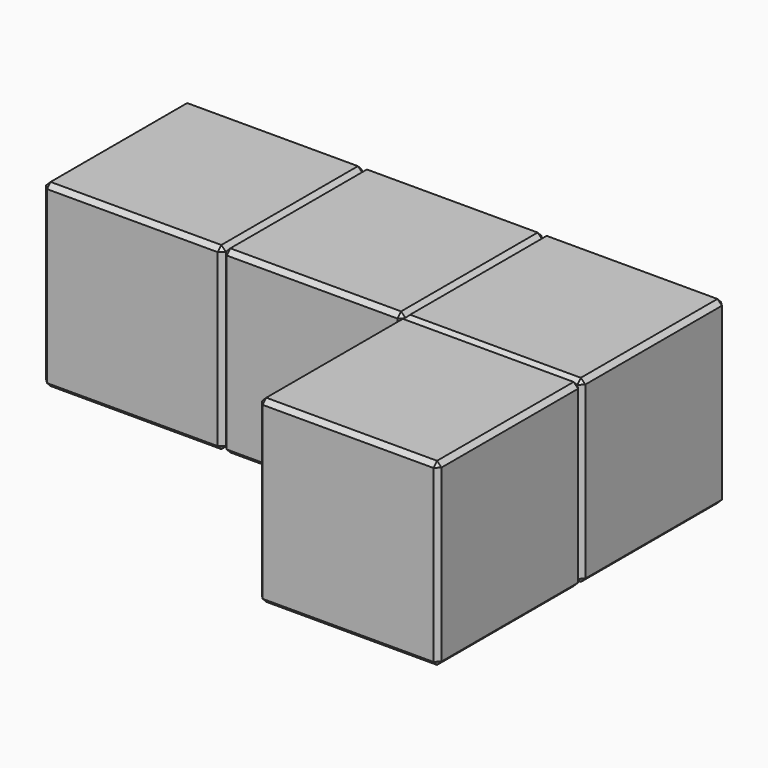
from build123d import *

# Parameters (mm, degrees)
F0_W      = 25.4
F0_H      = 25.4
F1_DEPTH  = 25.4
F2_DEPTH  = 25.4
F3_DEPTH  = 25.4
F4_DEPTH  = 25.4
F5_SIZE   = 0.635
F5_2_SIZE = 0.635
F5_3_SIZE = 0.635
F5_4_SIZE = 0.635


with BuildPart() as f1:
    # F0 (on Top) → F1 (new body)
    with BuildSketch(Plane.XY):
        with Locations((-25.4, 0)):
            Rectangle(F0_W, F0_H)
    extrude(amount=F1_DEPTH)

    # F5
    f5_edges = [f1.edges().sort_by_distance(p)[0] for p in [
        (-25.4, -12.7, 25.4),
        (-12.7, 0, 25.4),
        (-25.4, 12.7, 25.4),
        (-38.1, 0, 25.4),
        (-38.1, -12.7, 12.7),
        (-12.7, -12.7, 12.7),
        (-25.4, -12.7, 0),
        (-12.7, 12.7, 12.7),
        (-38.1, 12.7, 12.7),
        (-25.4, 12.7, 0),
        (-12.7, 0, 0),
        (-38.1, 0, 0),
    ]]
    chamfer(f5_edges, length=F5_SIZE)


with BuildPart() as f2:
    # F0 (on Top) → F2 (new body)
    with BuildSketch(Plane.XY):
        with Locations((25.4, -25.4)):
            Rectangle(F0_W, F0_H)
    extrude(amount=F2_DEPTH)

    # F5#4
    f5_4_edges = [f2.edges().sort_by_distance(p)[0] for p in [
        (25.4, -12.7, 25.4),
        (12.7, -25.4, 25.4),
        (25.4, -38.1, 25.4),
        (38.1, -25.4, 25.4),
        (12.7, -38.1, 12.7),
        (38.1, -38.1, 12.7),
        (25.4, -38.1, 0),
        (38.1, -25.4, 0),
        (25.4, -12.7, 0),
        (12.7, -25.4, 0),
        (38.1, -12.7, 12.7),
    ]]
    chamfer(f5_4_edges, length=F5_4_SIZE)


with BuildPart() as f3:
    # F0 (on Top) → F3 (new body)
    with BuildSketch(Plane.XY):
        Rectangle(F0_W, F0_H)
    extrude(amount=F3_DEPTH)

    # F5#2
    f5_2_edges = [f3.edges().sort_by_distance(p)[0] for p in [
        (-12.7, 0, 25.4),
        (0, -12.7, 25.4),
        (12.7, 0, 25.4),
        (0, 12.7, 25.4),
        (-12.7, -12.7, 12.7),
        (12.7, -12.7, 12.7),
        (0, -12.7, 0),
        (-12.7, 12.7, 12.7),
        (12.7, 12.7, 12.7),
        (0, 12.7, 0),
        (-12.7, 0, 0),
        (12.7, 0, 0),
    ]]
    chamfer(f5_2_edges, length=F5_2_SIZE)


with BuildPart() as f4:
    # F0 (on Top) → F4 (new body)
    with BuildSketch(Plane.XY):
        with Locations((25.4, 0)):
            Rectangle(F0_W, F0_H)
    extrude(amount=F4_DEPTH)

    # F5#3
    f5_3_edges = [f4.edges().sort_by_distance(p)[0] for p in [
        (12.7, 0, 25.4),
        (25.4, -12.7, 25.4),
        (38.1, 0, 25.4),
        (25.4, 12.7, 25.4),
        (38.1, 0, 0),
        (12.7, 12.7, 12.7),
        (38.1, 12.7, 12.7),
        (25.4, 12.7, 0),
        (12.7, 0, 0),
        (25.4, -12.7, 0),
        (38.1, -12.7, 12.7),
    ]]
    chamfer(f5_3_edges, length=F5_3_SIZE)


solid = Compound([f1.part, f2.part, f3.part, f4.part])
